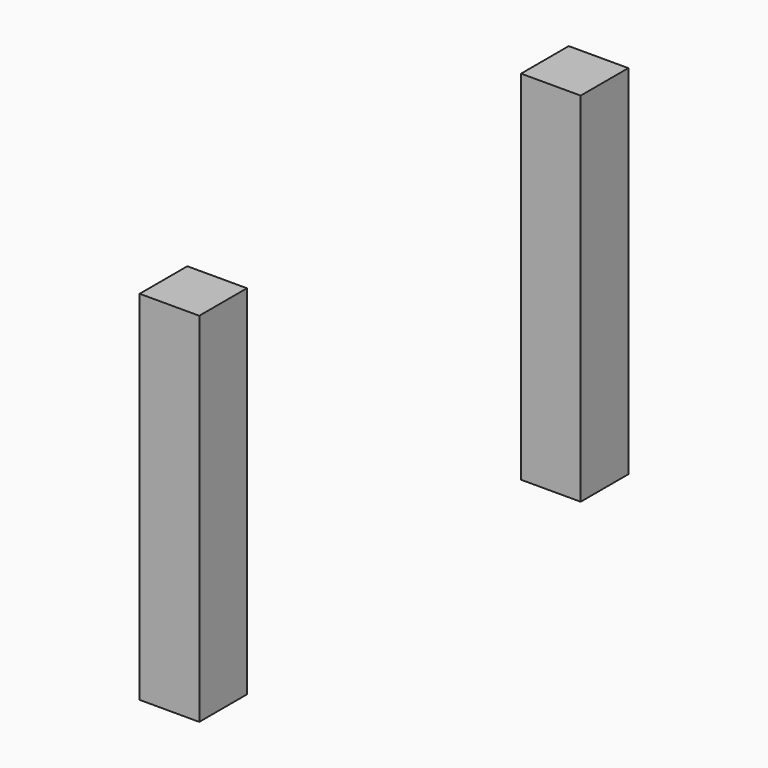
from build123d import *

# Parameters (mm, degrees)
F1_W     = 101.6
F1_H     = 101.6
F2_DEPTH = 609.6


with BuildPart() as f2:
    # F1 (on Top) → F2 (new body)
    with BuildSketch(Plane.XY):
        with Locations((863.6, -406.4)):
            Rectangle(F1_W, F1_H)
        with Locations((863.6, 406.4)):
            Rectangle(F1_W, F1_H)
    extrude(amount=-F2_DEPTH)


solid = f2.part
